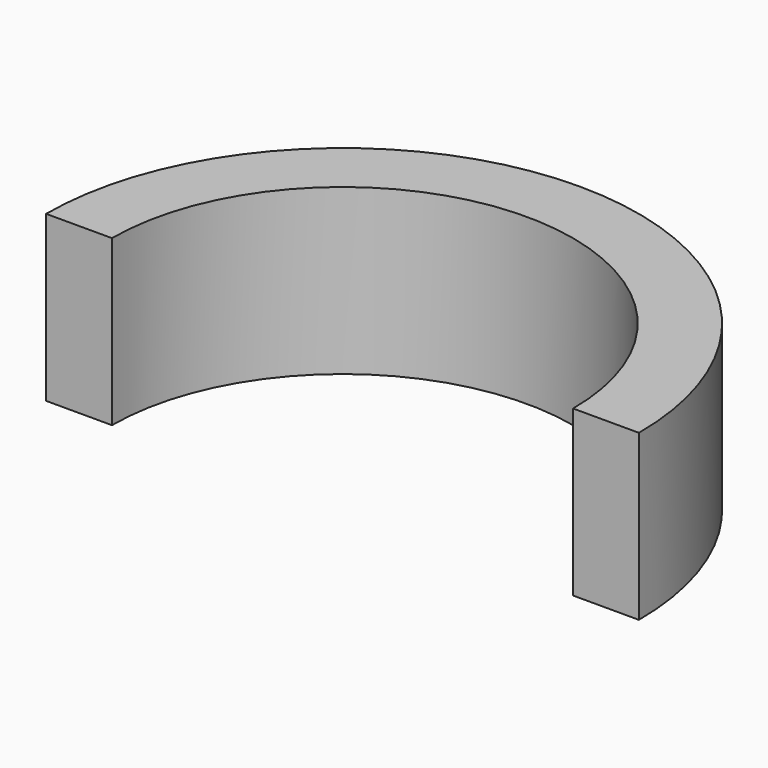
from build123d import *

# Parameters (mm, degrees)
F0_R     = 9
F0_R_2   = 7
F1_DEPTH = 5
F3_DEPTH = 25


with BuildPart() as f1:
    # F0 (on Top) → F1 (new body)
    with BuildSketch(Plane.XY):
        Circle(F0_R)
        Circle(F0_R_2, mode=Mode.SUBTRACT)
    extrude(amount=F1_DEPTH)

    # F2 (on face) → F3 (cut)
    with BuildSketch(Plane.XY.offset(5)):
        with BuildLine():
            Line((-7, 0), (-9, 0))
            ThreePointArc((-9, 0), (0, -9), (9, 0))
            Line((9, 0), (7, 0))
            ThreePointArc((7, 0), (0, -7), (-7, 0))
        make_face()
    extrude(amount=-F3_DEPTH, mode=Mode.SUBTRACT)


solid = f1.part
